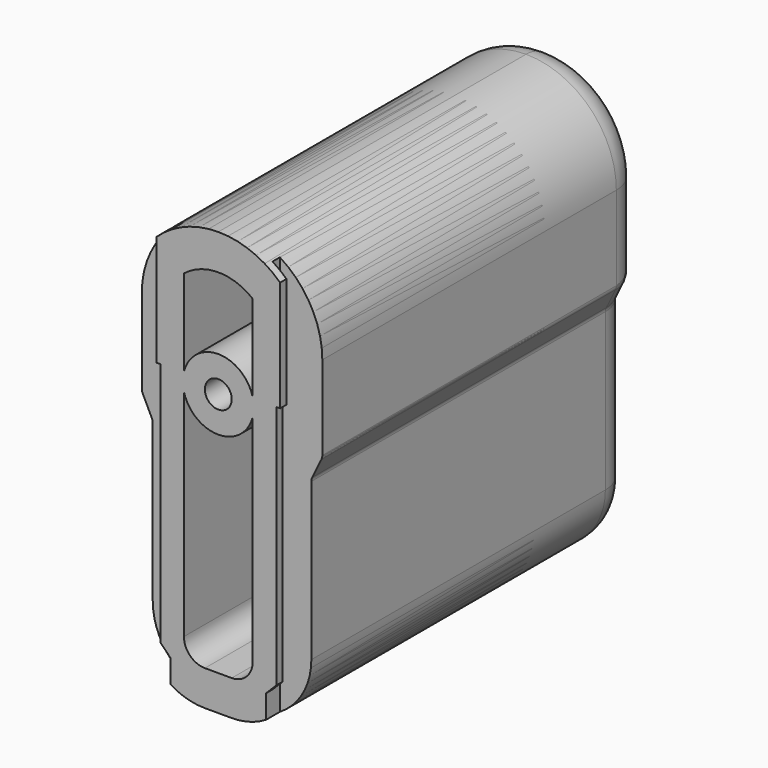
from build123d import *

# Parameters (mm, degrees)
SKETCH_W             = 27.1622
SKETCH_H             = 120.2182
PAD_DEPTH            = 4.8768
SKETCH001_W          = 35.087
SKETCH001_H          = 120.2182
PAD001_DEPTH         = 2.24
SKETCH002_W          = 55.087
SKETCH002_H          = 140.2182
POCKET_DEPTH         = 4.8778
PAD002_DEPTH         = 88.9
SKETCH004_W          = 71.2318
SKETCH004_H          = 140.2182
POCKET001_DEPTH      = 88.901
POCKET001_DEPTH_BACK = 4.8778
SKETCH022_R          = 3.8179
POCKET010_DEPTH      = 9.525
FILLET_R             = 10
POCKET011_DEPTH      = 83.9
SKETCH026_W          = 27.1622
SKETCH026_H          = 120.2182
PAD003_DEPTH         = 4.8768
SKETCH024_W          = 35.087
SKETCH024_H          = 120.2182
PAD004_DEPTH         = 2.24
SKETCH027_W          = 55.087
SKETCH027_H          = 140.2182
POCKET012_DEPTH      = 4.8778
PAD005_DEPTH         = 114.3
SKETCH028_W          = 71.2318
SKETCH028_H          = 140.2182
POCKET013_DEPTH      = 114.301
POCKET013_DEPTH_BACK = 4.8778
SKETCH029_R          = 3.8179
POCKET014_DEPTH      = 9.525
FILLET001_R          = 10
POCKET015_DEPTH      = 109.3


with BuildPart() as obj1:
    # Sketch → Pad (new body)
    with BuildSketch(Plane.XZ):
        with Locations((0, 60.1091)):
            Rectangle(SKETCH_W, SKETCH_H)
    extrude(amount=PAD_DEPTH)

    # Sketch001 → Pad001 (join)
    with BuildSketch(Plane.XZ.offset(4.8768)):
        with Locations((0, 60.1091)):
            Rectangle(SKETCH001_W, SKETCH001_H)
    extrude(amount=-PAD001_DEPTH)

    # Sketch002 → Pocket (cut, through all)
    with BuildSketch(Plane.XZ):
        with Locations((0, 60.1091)):
            Rectangle(SKETCH002_W, SKETCH002_H)
        Polygon((-13.5811, 0), (13.5811, 0), (13.5811, 9.398), (16.464, 12.2936), (16.464, 81.8388), (17.5435, 81.8388), (17.5435, 120.2182), (-17.5435, 120.2182), (-17.5435, 81.8388), (-16.464, 81.8388), (-16.464, 12.2936), (-13.5811, 9.398), align=None, mode=Mode.SUBTRACT)
    extrude(amount=POCKET_DEPTH, mode=Mode.SUBTRACT)

    # Sketch003 → Pad002 (join)
    with BuildSketch(Plane.XZ):
        with BuildLine():
            Line((-22.5044, 0), (22.5044, 0))
            Line((22.5044, 0), (22.5044, 63.215202))
            ThreePointArc((22.75823, 64.3128), (22.568684, 63.778485), (22.5044, 63.215202))
            Line((25.36207, 69.641402), (22.75823, 64.3128))
            ThreePointArc((25.36207, 69.641402), (25.551616, 70.175717), (25.6159, 70.739))
            Line((25.6159, 120.2182), (25.6159, 70.739))
            Line((-25.6159, 120.2182), (25.6159, 120.2182))
            Line((-25.6159, 70.739), (-25.6159, 120.2182))
            ThreePointArc((-25.6159, 70.739), (-25.551616, 70.175717), (-25.36207, 69.641402))
            Line((-25.36207, 69.641402), (-22.75823, 64.3128))
            ThreePointArc((-22.5044, 63.215202), (-22.568684, 63.778485), (-22.75823, 64.3128))
            Line((-22.5044, 63.215202), (-22.5044, 0))
        make_face()
    extrude(amount=-PAD002_DEPTH)

    # Sketch004 → Pocket001 (cut, two sides)
    with BuildSketch(Plane.XZ) as pocket001_sk:
        with Locations((0, 60.1091)):
            Rectangle(SKETCH004_W, SKETCH004_H)
        with BuildLine():
            ThreePointArc((-22.5044, 18.6944), (-17.028937, 5.475463), (-3.81, 0))
            Line((-3.81, 0), (3.81, 0))
            ThreePointArc((3.81, 0), (17.028937, 5.475463), (22.5044, 18.6944))
            Line((22.5044, 18.6944), (22.5044, 59.3128))
            Line((22.5044, 59.3128), (25.6159, 59.3128))
            Line((25.6159, 59.3128), (25.6159, 94.6023))
            ThreePointArc((25.6159, 94.6023), (18.113177, 112.715477), (0, 120.2182))
            ThreePointArc((0, 120.2182), (-18.113177, 112.715477), (-25.6159, 94.6023))
            Line((-25.6159, 94.6023), (-25.6159, 59.3128))
            Line((-25.6159, 59.3128), (-22.5044, 59.3128))
            Line((-22.5044, 59.3128), (-22.5044, 18.6944))
        make_face(mode=Mode.SUBTRACT)
    extrude(amount=-POCKET001_DEPTH, mode=Mode.SUBTRACT)
    extrude(pocket001_sk.sketch, amount=POCKET001_DEPTH_BACK, mode=Mode.SUBTRACT)

    # Sketch022 → Pocket010 (cut)
    with BuildSketch(Plane.XZ.offset(4.8768)):
        with Locations((0, 79.6417)):
            Circle(SKETCH022_R)
    extrude(amount=-POCKET010_DEPTH, mode=Mode.SUBTRACT)

    # Fillet
    fillet_edges = [obj1.edges().sort_by_distance(p)[0] for p in [
        (-25.6159, 88.9, 82.67065),
        (-18.113177, 88.9, 112.715477),
        (18.113177, 88.9, 112.715477),
        (25.6159, 88.9, 82.67065),
        (25.551616, 88.9, 70.175717),
        (24.06015, 88.9, 66.977101),
        (22.568684, 88.9, 63.778485),
        (22.5044, 88.9, 40.954801),
        (17.028937, 88.9, 5.475463),
        (0, 88.9, 0),
        (-17.028937, 88.9, 5.475463),
        (-22.5044, 88.9, 40.954801),
        (-22.568684, 88.9, 63.778485),
        (-24.06015, 88.9, 66.977101),
        (-25.551616, 88.9, 70.175717),
    ]]
    fillet(fillet_edges, radius=FILLET_R)

    # Sketch023 (on Face20 of Fillet) → Pocket011 (cut)
    with BuildSketch(Plane.XZ.offset(4.8768)):
        with BuildLine():
            ThreePointArc((-9.752569, 15.942569), (-8.012031, 11.740538), (-3.81, 10))
            Line((-3.81, 10), (3.81, 10))
            ThreePointArc((3.81, 10), (8.012031, 11.740538), (9.752569, 15.942569))
            Line((9.752569, 15.942569), (9.752569, 77.1417))
            ThreePointArc((-9.752569, 77.1417), (0, 69.5738), (9.752569, 77.1417))
            Line((-9.752569, 77.1417), (-9.752569, 15.942569))
        make_face()
        with BuildLine():
            ThreePointArc((9.752569, 106.690579), (0, 110.134174), (-9.752569, 106.690579))
            Line((-9.752569, 106.690579), (-9.752569, 82.1417))
            ThreePointArc((9.752569, 82.1417), (0, 89.7096), (-9.752569, 82.1417))
            Line((9.752569, 82.1417), (9.752569, 106.690579))
        make_face()
    extrude(amount=-POCKET011_DEPTH, mode=Mode.SUBTRACT)


with BuildPart() as obj2:
    # Sketch026 → Pad003 (new body)
    with BuildSketch(Plane.XZ):
        with Locations((0, 60.1091)):
            Rectangle(SKETCH026_W, SKETCH026_H)
    extrude(amount=PAD003_DEPTH)

    # Sketch024 → Pad004 (join)
    with BuildSketch(Plane.XZ.offset(4.8768)):
        with Locations((0, 60.1091)):
            Rectangle(SKETCH024_W, SKETCH024_H)
    extrude(amount=-PAD004_DEPTH)

    # Sketch027 → Pocket012 (cut, through all)
    with BuildSketch(Plane.XZ):
        with Locations((0, 60.1091)):
            Rectangle(SKETCH027_W, SKETCH027_H)
        Polygon((-13.5811, 0), (13.5811, 0), (13.5811, 9.398), (16.464, 12.2936), (16.464, 81.8388), (17.5435, 81.8388), (17.5435, 120.2182), (-17.5435, 120.2182), (-17.5435, 81.8388), (-16.464, 81.8388), (-16.464, 12.2936), (-13.5811, 9.398), align=None, mode=Mode.SUBTRACT)
    extrude(amount=POCKET012_DEPTH, mode=Mode.SUBTRACT)

    # Sketch025 → Pad005 (join)
    with BuildSketch(Plane.XZ):
        with BuildLine():
            Line((-22.5044, 0), (22.5044, 0))
            Line((22.5044, 0), (22.5044, 63.215202))
            ThreePointArc((22.75823, 64.3128), (22.568684, 63.778485), (22.5044, 63.215202))
            Line((25.36207, 69.641402), (22.75823, 64.3128))
            ThreePointArc((25.36207, 69.641402), (25.551616, 70.175717), (25.6159, 70.739))
            Line((25.6159, 120.2182), (25.6159, 70.739))
            Line((-25.6159, 120.2182), (25.6159, 120.2182))
            Line((-25.6159, 70.739), (-25.6159, 120.2182))
            ThreePointArc((-25.6159, 70.739), (-25.551616, 70.175717), (-25.36207, 69.641402))
            Line((-25.36207, 69.641402), (-22.75823, 64.3128))
            ThreePointArc((-22.5044, 63.215202), (-22.568684, 63.778485), (-22.75823, 64.3128))
            Line((-22.5044, 63.215202), (-22.5044, 0))
        make_face()
    extrude(amount=-PAD005_DEPTH)

    # Sketch028 → Pocket013 (cut, two sides)
    with BuildSketch(Plane.XZ) as pocket013_sk:
        with Locations((0, 60.1091)):
            Rectangle(SKETCH028_W, SKETCH028_H)
        with BuildLine():
            ThreePointArc((-22.5044, 18.6944), (-17.028937, 5.475463), (-3.81, 0))
            Line((-3.81, 0), (3.81, 0))
            ThreePointArc((3.81, 0), (17.028937, 5.475463), (22.5044, 18.6944))
            Line((22.5044, 18.6944), (22.5044, 59.3128))
            Line((22.5044, 59.3128), (25.6159, 59.3128))
            Line((25.6159, 59.3128), (25.6159, 94.6023))
            ThreePointArc((25.6159, 94.6023), (18.113177, 112.715477), (0, 120.2182))
            ThreePointArc((0, 120.2182), (-18.113177, 112.715477), (-25.6159, 94.6023))
            Line((-25.6159, 94.6023), (-25.6159, 59.3128))
            Line((-25.6159, 59.3128), (-22.5044, 59.3128))
            Line((-22.5044, 59.3128), (-22.5044, 18.6944))
        make_face(mode=Mode.SUBTRACT)
    extrude(amount=-POCKET013_DEPTH, mode=Mode.SUBTRACT)
    extrude(pocket013_sk.sketch, amount=POCKET013_DEPTH_BACK, mode=Mode.SUBTRACT)

    # Sketch029 → Pocket014 (cut)
    with BuildSketch(Plane.XZ.offset(4.8768)):
        with Locations((0, 79.6417)):
            Circle(SKETCH029_R)
    extrude(amount=-POCKET014_DEPTH, mode=Mode.SUBTRACT)

    # Fillet001
    fillet001_edges = [obj2.edges().sort_by_distance(p)[0] for p in [
        (-25.6159, 114.3, 82.67065),
        (-18.113177, 114.3, 112.715477),
        (18.113177, 114.3, 112.715477),
        (25.6159, 114.3, 82.67065),
        (25.551616, 114.3, 70.175717),
        (24.06015, 114.3, 66.977101),
        (22.568684, 114.3, 63.778485),
        (22.5044, 114.3, 40.954801),
        (17.028937, 114.3, 5.475463),
        (0, 114.3, 0),
        (-17.028937, 114.3, 5.475463),
        (-22.5044, 114.3, 40.954801),
        (-22.568684, 114.3, 63.778485),
        (-24.06015, 114.3, 66.977101),
        (-25.551616, 114.3, 70.175717),
    ]]
    fillet(fillet001_edges, radius=FILLET001_R)

    # Sketch030 (on Face20 of Fillet001) → Pocket015 (cut)
    with BuildSketch(Plane.XZ.offset(4.8768)):
        with BuildLine():
            ThreePointArc((-9.752569, 15.942569), (-8.012031, 11.740538), (-3.81, 10))
            Line((-3.81, 10), (3.81, 10))
            ThreePointArc((3.81, 10), (8.012031, 11.740538), (9.752569, 15.942569))
            Line((9.752569, 15.942569), (9.752569, 77.1417))
            ThreePointArc((-9.752569, 77.1417), (0, 69.5738), (9.752569, 77.1417))
            Line((-9.752569, 77.1417), (-9.752569, 15.942569))
        make_face()
        with BuildLine():
            ThreePointArc((9.752569, 106.690579), (0, 110.134174), (-9.752569, 106.690579))
            Line((-9.752569, 106.690579), (-9.752569, 82.1417))
            ThreePointArc((9.752569, 82.1417), (0, 89.7096), (-9.752569, 82.1417))
            Line((9.752569, 82.1417), (9.752569, 106.690579))
        make_face()
    extrude(amount=-POCKET015_DEPTH, mode=Mode.SUBTRACT)


solid = Compound([obj1.part, obj2.part])
